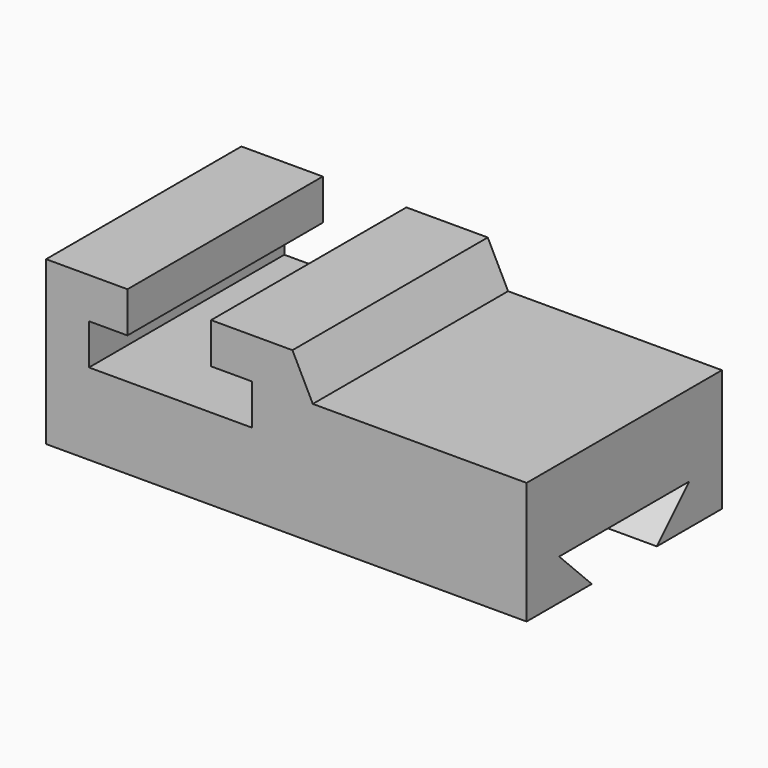
from build123d import *

# Parameters (mm, degrees)
F1_DEPTH = 76.2
F3_DEPTH = 195.834


with BuildPart() as f1:
    # F0 (on Front) → F1 (new body)
    with BuildSketch(Plane.XZ):
        Polygon((0, 50.8), (0, 0), (149.987, 0), (149.987, 38.1), (99.187, 38.1), (83.246626, 38.1), (76.896626, 50.8), (51.496626, 50.8), (51.496626, 38.1), (64.196626, 38.1), (64.196626, 25.4), (13.396626, 25.4), (13.396626, 38.1), (25.4, 38.1), (25.4, 50.8), align=None)
    extrude(amount=F1_DEPTH)

    # F2 (on face) → F3 (cut)
    with BuildSketch(Plane.YZ.offset(149.987)):
        Polygon((-63.5, 12.7), (-50.8, 0), (-25.4, 0), (-12.7, 12.7), (-38.1, 12.7), align=None)
    extrude(amount=-F3_DEPTH, mode=Mode.SUBTRACT)


solid = f1.part
